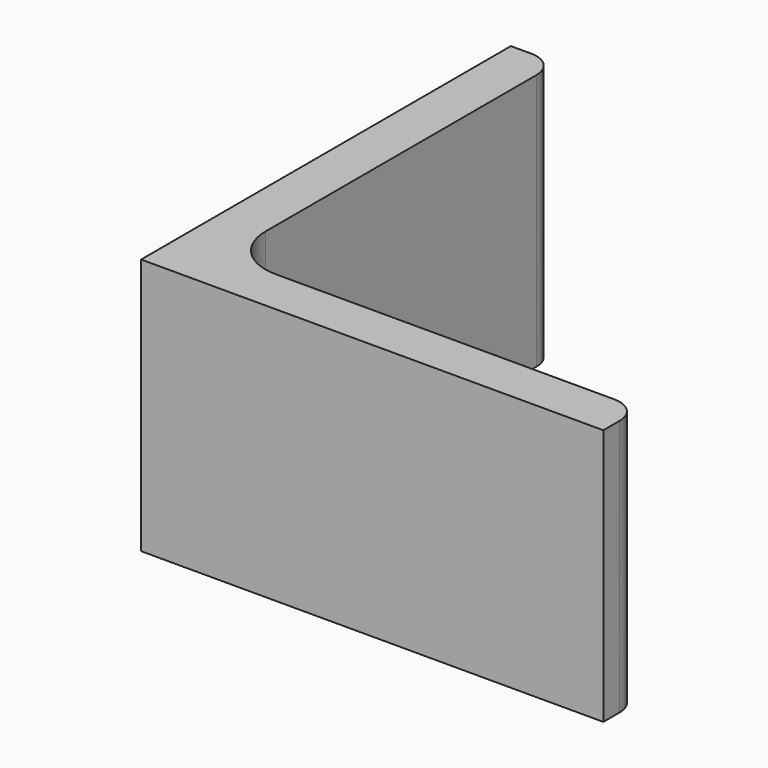
from build123d import *

# Parameters (mm, degrees)
EXTRUDE_DEPTH = 50


with BuildPart() as part:
    # Sketch → Extrude (new body)
    with BuildSketch(Plane.XY):
        with BuildLine():
            Line((0, 0), (90, 0))
            Line((90, 0), (90, 4))
            ThreePointArc((90, 4), (88.535534, 7.535534), (85, 9))
            Line((85, 9), (19, 9))
            ThreePointArc((9, 19), (11.928932, 11.928932), (19, 9))
            Line((9, 85), (9, 19))
            ThreePointArc((9, 85), (7.535534, 88.535534), (4, 90))
            Line((0, 90), (4, 90))
            Line((0, 0), (0, 90))
        make_face()
    extrude(amount=EXTRUDE_DEPTH)


solid = part.part
